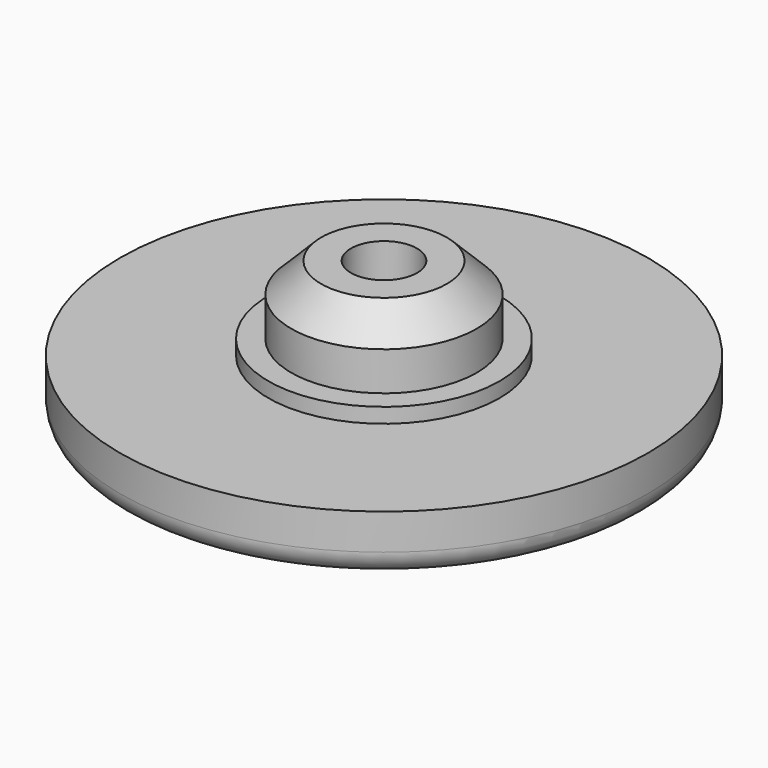
from build123d import *

# Parameters (mm, degrees)
F0_R     = 3.95
F1_DEPTH = 3.556
F0_R_2   = 11.2522
F2_DEPTH = 2.54
F3_R     = 1.016
F4_R     = 4.9244336153
F4_R_2   = 3.95
F5_DEPTH = 0.635
F6_T     = -2.54
F7_SIZE  = 1.27


with BuildPart() as f1:
    # F0 (on Top) → F1 (new body)
    with BuildSketch(Plane.XY):
        Circle(F0_R)
    extrude(amount=F1_DEPTH)

    # F0 (on Top) → F2 (join)
    with BuildSketch(Plane.XY):
        Circle(F0_R_2)
        Circle(F0_R, mode=Mode.SUBTRACT)
        Circle(F0_R)
    extrude(amount=-F2_DEPTH)

    # F3
    f3_edges = [f1.edges().sort_by_distance(p)[0] for p in [
        (-11.2522, 0, -2.54),
    ]]
    fillet(f3_edges, radius=F3_R)

    # F4 (on face) → F5 (join, symmetric)
    with BuildSketch(Plane.XY):
        Circle(F4_R)
        Circle(F4_R_2, mode=Mode.SUBTRACT)
    extrude(amount=F5_DEPTH, both=True)

    # F6
    f6_openings = [f1.faces().sort_by_distance(p)[0] for p in [
        (0, 0, 3.556),
    ]]
    offset(amount=F6_T, openings=f6_openings, kind=Kind.INTERSECTION)

    # F7
    f7_edges = [f1.edges().sort_by_distance(p)[0] for p in [
        (-3.95, 0, 3.556),
    ]]
    chamfer(f7_edges, length=F7_SIZE)


solid = f1.part
